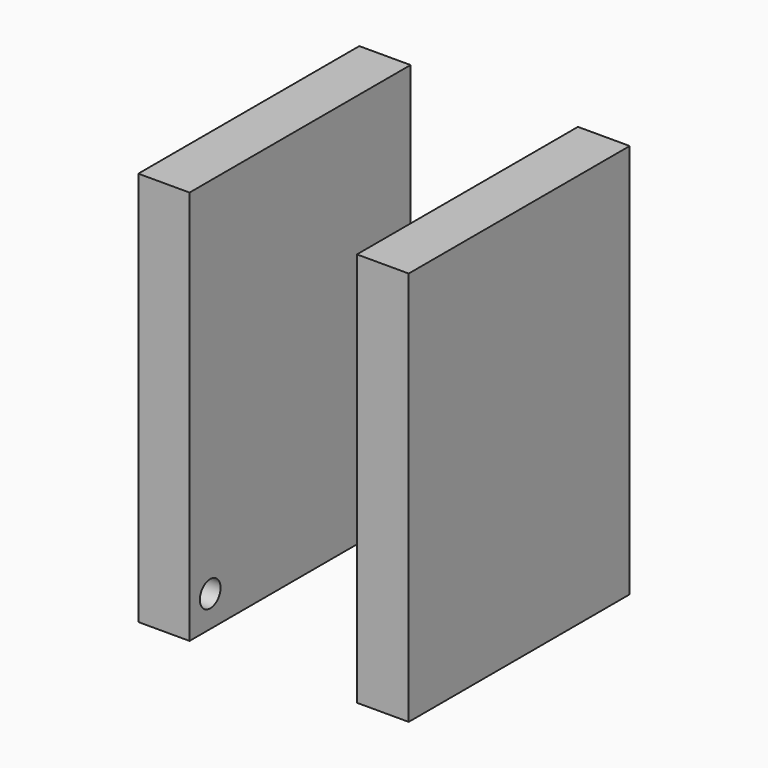
from build123d import *

# Parameters (mm, degrees)
F0_W     = 14.1371041536
F0_H     = 108.8857911527
F1_DEPTH = 76.2
F0_W_2   = 14.2874987796
F3_D     = 7.1374


with BuildPart() as f1:
    # F0 (on Front) → F1 (new body)
    with BuildSketch(Plane.XZ):
        with Locations((-53.239736706, -1.6543436795)):
            Rectangle(F0_W, F0_H)
    extrude(amount=F1_DEPTH)

    # F3 (through all)
    with Locations(Plane.YZ.offset(-46.1711846292)):
        with Locations((-69.0673366189, -47.5133731961), (-14.770526439, -47.5133731961)):
            Hole(F3_D / 2)


with BuildPart() as f1b:
    # F0 (on Front) → F1, piece 2 (new body)
    with BuildSketch(Plane.XZ):
        with Locations((7.1437493898, -1.6543436795)):
            Rectangle(F0_W_2, F0_H)
    extrude(amount=F1_DEPTH)


solid = Compound([f1.part, f1b.part])
